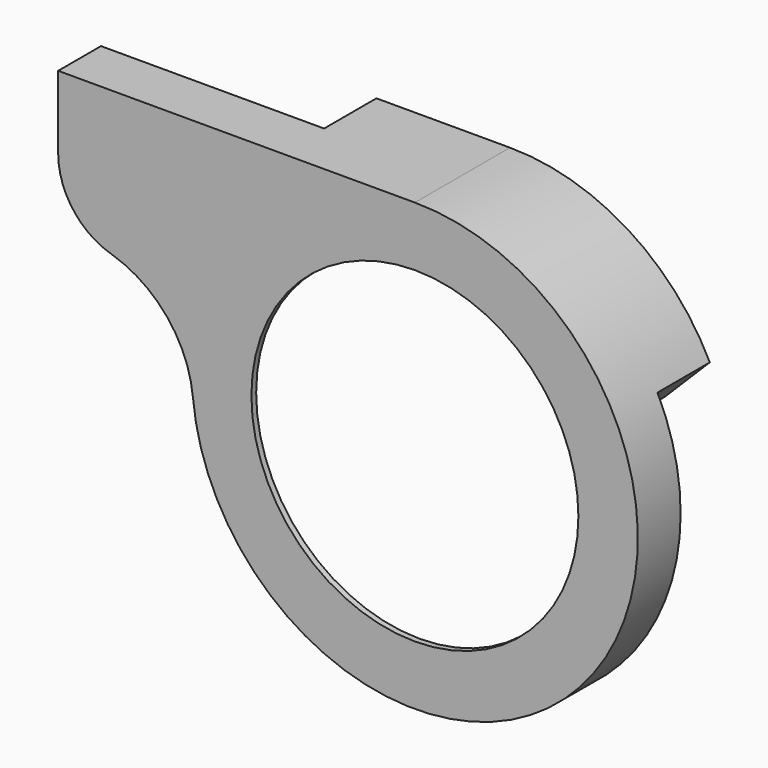
from build123d import *

# Parameters (mm, degrees)
SKETCH_R        = 55
PAD_DEPTH       = 40
POCKET_DEPTH    = 22
POCKET001_DEPTH = 16
SKETCH004_R     = 68.724133
SKETCH004_R_2   = 60.683335
POCKET002_DEPTH = 0.5


with BuildPart() as part:
    # Sketch → Pad (new body)
    with BuildSketch(Plane.XZ):
        with BuildLine():
            Line((-120, 75), (0, 75))
            ThreePointArc((-74.66808, -7.048245), (55.468993, -50.479608), (0, 75))
            ThreePointArc((-74.66808, -7.048245), (-83.30852, 13.959176), (-102.203647, 26.566441))
            ThreePointArc((-120, 50.506104), (-115.063539, 35.591198), (-102.203647, 26.566441))
            Line((-120, 75), (-120, 50.506104))
        make_face()
        Circle(SKETCH_R, mode=Mode.SUBTRACT)
    extrude(amount=PAD_DEPTH)

    # Sketch001 (on Face7 of Pad) → Pocket (cut)
    with BuildSketch(Plane(origin=(0, 0, 0), x_dir=(1, 0, 0), z_dir=(0, 1, 0))):
        with BuildLine():
            Line((52.081201, -18.140076), (85.552432, -51.611306))
            ThreePointArc((85.552432, -51.611306), (26.786197, 96.257182), (-99.914691, 0))
            Line((-211.758942, -108.831918), (-99.914691, 0))
            Line((-54.008053, -108.831918), (-211.758942, -108.831918))
            Line((-37.907945, -48.745498), (-54.008053, -108.831918))
            Line((18.140076, -52.081201), (-37.907945, -48.745498))
            Line((52.081201, -18.140076), (18.140076, -52.081201))
        make_face()
    extrude(amount=-POCKET_DEPTH, mode=Mode.SUBTRACT)

    # Sketch003 (on Face2 of Pocket) → Pocket001 (cut)
    with BuildSketch(Plane(origin=(0, -22, 0), x_dir=(1, 0, 0), z_dir=(0, 1, 0))):
        with BuildLine():
            ThreePointArc((0, -70), (66.404243, -22.146705), (42.018147, 55.986385))
            Line((42.018147, 55.986385), (62.226624, 86.16832))
            Line((62.226624, 86.16832), (-170.809082, 86.16832))
            Line((-170.809082, 86.16832), (-170.809082, -70))
            Line((-170.809082, -70), (0, -70))
        make_face()
    extrude(amount=-POCKET001_DEPTH, mode=Mode.SUBTRACT)

    # Sketch004 → Pocket002 (cut)
    with BuildSketch(Plane(origin=(0, -38, 0), x_dir=(-1, 0, 0), z_dir=(0, 1, 0))):
        Circle(SKETCH004_R)
        Circle(SKETCH004_R_2, mode=Mode.SUBTRACT)
    extrude(amount=-POCKET002_DEPTH, mode=Mode.SUBTRACT)


solid = part.part
